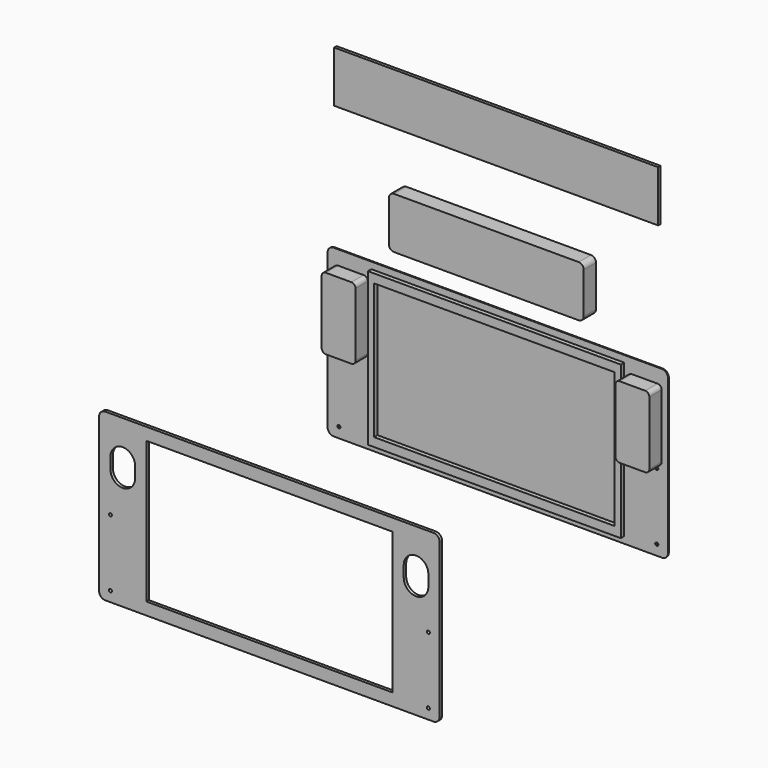
from build123d import *

# Parameters (mm, degrees)
F5_DEPTH  = 10
F6_R      = 2
F7_DEPTH  = 16
F1_R      = 1.5
F8_DEPTH  = 1
F0_W      = 246.52
F0_H      = 149.02
F0_W_2    = 234.72
F0_H_2    = 132.03
F9_DEPTH  = 5.2
F11_DEPTH = 15
F12_W     = 316
F12_H     = 50
F13_DEPTH = 3
F14_R     = 1.5
F14_W     = 240
F14_H     = 138
F15_DEPTH = 3


with BuildPart() as f5:
    # F4 (on Right) → F5 (new body)
    with BuildSketch(Plane.YZ):
        with BuildLine():
            Line((53.430764, 35.30134), (27.229679, 42.321899))
            Line((27.229679, 42.321899), (4.607724, -42.104388))
            Line((4.607724, -42.104388), (64.607724, -42.104388))
            Line((64.607724, -42.104388), (64.607724, -30.412771))
            ThreePointArc((64.607724, -30.412771), (63.143258, -26.877237), (59.607724, -25.412771))
            Line((59.607724, -25.412771), (48.854975, -25.412771))
            ThreePointArc((48.854975, -25.412771), (44.888208, -23.456578), (44.025346, -19.118676))
            Line((44.025346, -19.118676), (56.966298, 29.177615))
            ThreePointArc((56.966298, 29.177615), (56.466796, 32.971711), (53.430764, 35.30134))
        make_face()
    extrude(amount=F5_DEPTH)

    # F6
    f6_edges = [f5.edges().sort_by_distance(p)[0] for p in [
        (10, 40.330222, 38.81162),
    ]]
    fillet(f6_edges, radius=F6_R)


with BuildPart() as f7:
    # F2 (on Front) → F7 (new body)
    with BuildSketch(Plane.XZ):
        with BuildLine():
            Line((-130.76, 67.01), (-155.76, 67.01))
            ThreePointArc((-155.76, 67.01), (-158.588427, 65.838427), (-159.76, 63.01))
            Line((-159.76, 63.01), (-159.76, 1.01))
            ThreePointArc((-159.76, 1.01), (-158.588427, -1.818427), (-155.76, -2.99))
            Line((-155.76, -2.99), (-130.76, -2.99))
            ThreePointArc((-130.76, -2.99), (-127.931573, -1.818427), (-126.76, 1.01))
            Line((-126.76, 1.01), (-126.76, 63.01))
            ThreePointArc((-126.76, 63.01), (-127.931573, 65.838427), (-130.76, 67.01))
        make_face()
        with BuildLine():
            Line((155.76, 67.01), (130.76, 67.01))
            ThreePointArc((130.76, 67.01), (127.931573, 65.838427), (126.76, 63.01))
            Line((126.76, 63.01), (126.76, 1.01))
            ThreePointArc((126.76, 1.01), (127.931573, -1.818427), (130.76, -2.99))
            Line((130.76, -2.99), (155.76, -2.99))
            ThreePointArc((155.76, -2.99), (158.588427, -1.818427), (159.76, 1.01))
            Line((159.76, 1.01), (159.76, 63.01))
            ThreePointArc((159.76, 63.01), (158.588427, 65.838427), (155.76, 67.01))
        make_face()
    extrude(amount=F7_DEPTH)


with BuildPart() as f8:
    # F1 (on Front) → F8 (new body)
    with BuildSketch(Plane.XZ):
        with BuildLine():
            Line((-160, -81), (160, -81))
            ThreePointArc((160, -81), (164.242641, -79.242641), (166, -75))
            Line((166, -75), (166, 75))
            ThreePointArc((166, 75), (164.242641, 79.242641), (160, 81))
            Line((160, 81), (-160, 81))
            ThreePointArc((-160, 81), (-164.242641, 79.242641), (-166, 75))
            Line((-166, 75), (-166, -75))
            ThreePointArc((-166, -75), (-164.242641, -79.242641), (-160, -81))
        make_face()
        with Locations((-155, -71)):
            Circle(F1_R, mode=Mode.SUBTRACT)
        with Locations((-155, -6)):
            Circle(F1_R, mode=Mode.SUBTRACT)
        with Locations((155, -71)):
            Circle(F1_R, mode=Mode.SUBTRACT)
        with Locations((155, -6)):
            Circle(F1_R, mode=Mode.SUBTRACT)
        with BuildLine():
            Line((-155, 33), (-155, 44))
            ThreePointArc((-155, 44), (-151.485281, 52.485281), (-143, 56))
            ThreePointArc((-143, 56), (-134.514719, 52.485281), (-131, 44))
            Line((-131, 44), (-131, 33))
            ThreePointArc((-131, 33), (-134.514719, 24.514719), (-143, 21))
            ThreePointArc((-143, 21), (-151.485281, 24.514719), (-155, 33))
        make_face(mode=Mode.SUBTRACT)
        with BuildLine():
            Line((131, 33), (131, 44))
            ThreePointArc((131, 44), (134.514719, 52.485281), (143, 56))
            ThreePointArc((143, 56), (151.485281, 52.485281), (155, 44))
            Line((155, 44), (155, 33))
            ThreePointArc((155, 33), (151.485281, 24.514719), (143, 21))
            ThreePointArc((143, 21), (134.514719, 24.514719), (131, 33))
        make_face(mode=Mode.SUBTRACT)
    extrude(amount=F8_DEPTH)


with BuildPart() as f9:
    # F0 (on Front) → F9 (new body)
    with BuildSketch(Plane.XZ):
        Rectangle(F0_W, F0_H)
        Rectangle(F0_W_2, F0_H_2, mode=Mode.SUBTRACT)
    extrude(amount=F9_DEPTH)


with BuildPart() as f10_1:
    # F10: instance of F5
    add(f5.part.mirror(Plane.YZ))


with BuildPart() as f11:
    # F3 (on Front) → F11 (new body)
    with BuildSketch(Plane.XZ):
        with BuildLine():
            Line((-95, 150.692612), (-95, 110.692612))
            ThreePointArc((-95, 110.692612), (-93.535534, 107.157078), (-90, 105.692612))
            Line((-90, 105.692612), (90, 105.692612))
            ThreePointArc((90, 105.692612), (93.535534, 107.157078), (95, 110.692612))
            Line((95, 110.692612), (95, 150.692612))
            ThreePointArc((95, 150.692612), (93.535534, 154.228145), (90, 155.692612))
            Line((90, 155.692612), (-90, 155.692612))
            ThreePointArc((-90, 155.692612), (-93.535534, 154.228145), (-95, 150.692612))
        make_face()
    extrude(amount=F11_DEPTH)


with BuildPart() as f13:
    # F12 (on Front) → F13 (new body)
    with BuildSketch(Plane.XZ):
        with Locations((0, 229.321674)):
            Rectangle(F12_W, F12_H)
    extrude(amount=F13_DEPTH)


with BuildPart() as f15:
    # F14 (on Front) → F15 (new body)
    with BuildSketch(Plane.XZ):
        with BuildLine():
            Line((-381.128439, -292.795246), (-61.128439, -292.795246))
            ThreePointArc((-61.128439, -292.795246), (-56.885798, -291.037887), (-55.128439, -286.795246))
            Line((-55.128439, -286.795246), (-55.128439, -136.795246))
            ThreePointArc((-55.128439, -136.795246), (-56.885798, -132.552606), (-61.128439, -130.795246))
            Line((-61.128439, -130.795246), (-381.128439, -130.795246))
            ThreePointArc((-381.128439, -130.795246), (-385.371079, -132.552606), (-387.128439, -136.795246))
            Line((-387.128439, -136.795246), (-387.128439, -286.795246))
            ThreePointArc((-387.128439, -286.795246), (-385.371079, -291.037887), (-381.128439, -292.795246))
        make_face()
        with Locations((-376.128439, -282.795246)):
            Circle(F14_R, mode=Mode.SUBTRACT)
        with Locations((-376.128439, -217.795246)):
            Circle(F14_R, mode=Mode.SUBTRACT)
        with Locations((-66.128439, -282.795246)):
            Circle(F14_R, mode=Mode.SUBTRACT)
        with Locations((-66.128439, -217.795246)):
            Circle(F14_R, mode=Mode.SUBTRACT)
        with BuildLine():
            Line((-376.128439, -178.795246), (-376.128439, -167.795246))
            ThreePointArc((-376.128439, -167.795246), (-372.61372, -159.309965), (-364.128439, -155.795246))
            ThreePointArc((-364.128439, -155.795246), (-355.643157, -159.309965), (-352.128439, -167.795246))
            Line((-352.128439, -167.795246), (-352.128439, -178.795246))
            ThreePointArc((-352.128439, -178.795246), (-355.643157, -187.280528), (-364.128439, -190.795246))
            ThreePointArc((-364.128439, -190.795246), (-372.61372, -187.280528), (-376.128439, -178.795246))
        make_face(mode=Mode.SUBTRACT)
        with Locations((-221.128439, -211.795246)):
            Rectangle(F14_W, F14_H, mode=Mode.SUBTRACT)
        with BuildLine():
            Line((-90.128439, -178.795246), (-90.128439, -167.795246))
            ThreePointArc((-90.128439, -167.795246), (-86.61372, -159.309965), (-78.128439, -155.795246))
            ThreePointArc((-78.128439, -155.795246), (-69.643157, -159.309965), (-66.128439, -167.795246))
            Line((-66.128439, -167.795246), (-66.128439, -178.795246))
            ThreePointArc((-66.128439, -178.795246), (-69.643157, -187.280528), (-78.128439, -190.795246))
            ThreePointArc((-78.128439, -190.795246), (-86.61372, -187.280528), (-90.128439, -178.795246))
        make_face(mode=Mode.SUBTRACT)
    extrude(amount=F15_DEPTH)


solid = Compound([f5.part, f7.part, f8.part, f9.part, f10_1.part, f11.part, f13.part, f15.part])
